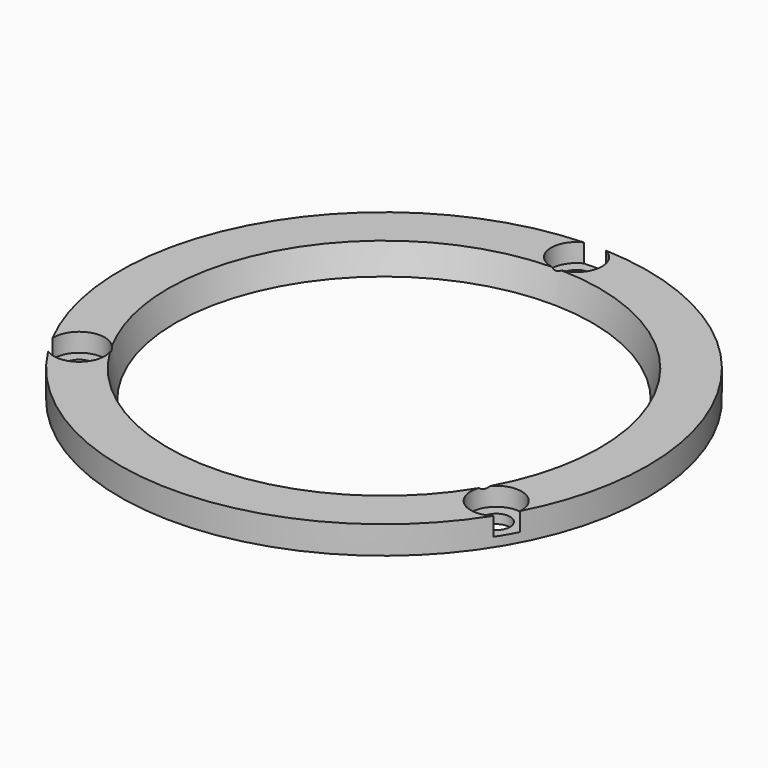
from build123d import *

# Parameters (mm, degrees)
F0_R     = 28.5
F0_R_2   = 1.5
F0_R_3   = 22.5
F1_DEPTH = 3
F2_R     = 1.5
F3_DEPTH = 2


with BuildPart() as f1:
    # F0 (on Top) → F1 (new body)
    with BuildSketch(Plane.XY):
        Circle(F0_R)
        with Locations((-22.5166604984, -13)):
            Circle(F0_R_2, mode=Mode.SUBTRACT)
        with Locations((22.5166604984, -13)):
            Circle(F0_R_2, mode=Mode.SUBTRACT)
        Circle(F0_R_3, mode=Mode.SUBTRACT)
        with Locations((0, 26)):
            Circle(F0_R_2, mode=Mode.SUBTRACT)
    extrude(amount=F1_DEPTH)

    # F2 (on face) → F3 (cut)
    with BuildSketch(Plane.XY.offset(3)):
        with BuildLine():
            ThreePointArc((-1.1991934148, 28.4747596154), (-1.4602599271, 23.6697337179), (2.75, 26))
            ThreePointArc((2.75, 26), (2.3302662821, 27.4602599271), (1.1991934148, 28.4747596154))
            ThreePointArc((1.1991934148, 28.4747596154), (0, 28.5), (-1.1991934148, 28.4747596154))
        make_face()
        with Locations((0, 26)):
            Circle(F2_R, mode=Mode.SUBTRACT)
        with BuildLine():
            ThreePointArc((-19.7666604984, -13), (-22.6161495504, -10.2518002386), (-25.259461901, -13.1988478464))
            ThreePointArc((-25.259461901, -13.1988478464), (-24.6817240079, -14.25), (-24.0602684862, -15.2759117689))
            ThreePointArc((-24.0602684862, -15.2759117689), (-21.2287206641, -15.429755334), (-19.7666604984, -13))
        make_face()
        with Locations((-22.5166604984, -13)):
            Circle(F2_R, mode=Mode.SUBTRACT)
        with BuildLine():
            ThreePointArc((24.0602684862, -15.2759117689), (24.6817240079, -14.25), (25.259461901, -13.1988478464))
            ThreePointArc((25.259461901, -13.1988478464), (25.2648602598, -13.099489052), (25.2666604984, -13))
            ThreePointArc((25.2666604984, -13), (20.0869051644, -11.7120601657), (24.0602684862, -15.2759117689))
        make_face()
        with Locations((22.5166604984, -13)):
            Circle(F2_R, mode=Mode.SUBTRACT)
    extrude(amount=-F3_DEPTH, mode=Mode.SUBTRACT)

    # F4 (on Front) → F5 (revolve, cut)
    with BuildSketch(Plane.XZ):
        Polygon((-23.8397459622, 5), (-22.5, 0), (-22.5, 5), align=None)
    revolve(axis=Axis((0, 0, 2.1961932071), (0, 0, 1)), mode=Mode.SUBTRACT)


solid = f1.part
